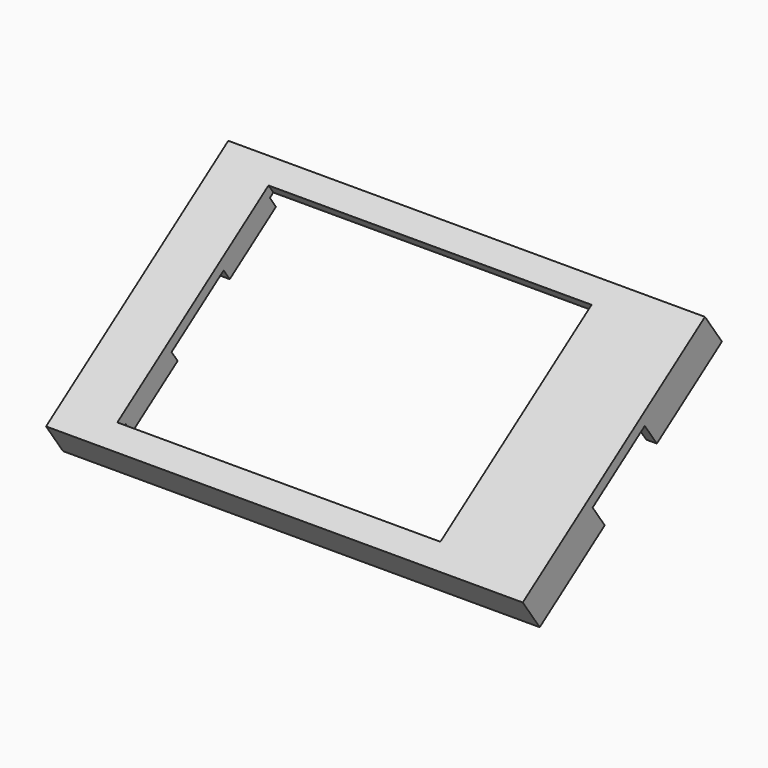
from build123d import *

# Parameters (mm, degrees)
SKETCH019_W             = 90
SKETCH019_H             = 52.43
PAD008_DEPTH            = 7
SKETCH020_W             = 86
SKETCH020_H             = 48.43
POCKET010_DEPTH         = 5
SKETCH030_W             = 67
SKETCH030_H             = 41.5
PAD011_DEPTH            = 2.5
SKETCH021_W             = 61
SKETCH021_H             = 43.5
POCKET011_DEPTH         = 7.001
SKETCH029_W             = 90
SKETCH029_H             = 15
POCKET016_DEPTH         = 5
BODY001_PLACEMENT_ANGLE = 34.9


with BuildPart() as part:
    # Sketch019 → Pad008 (new body)
    with BuildSketch(Plane.XY):
        with Locations((0, 26.215)):
            Rectangle(SKETCH019_W, SKETCH019_H)
    extrude(amount=PAD008_DEPTH)

    # Sketch020 (on Face5 of Pad008) → Pocket010 (cut)
    with BuildSketch(Plane(origin=(0, 0, 0), x_dir=(1, 0, 0), z_dir=(0, 0, -1))):
        with Locations((0, -26.215)):
            Rectangle(SKETCH020_W, SKETCH020_H)
    extrude(amount=-POCKET010_DEPTH, mode=Mode.SUBTRACT)

    # Sketch030 (on Face11 of Pocket010) → Pad011 (join)
    with BuildSketch(Plane(origin=(0, 0, 5), x_dir=(1, 0, 0), z_dir=(0, 0, -1))):
        with Locations((-4, -26.25)):
            Rectangle(SKETCH030_W, SKETCH030_H)
    extrude(amount=PAD011_DEPTH)

    # Sketch021 (on Face5 of Pocket010) → Pocket011 (cut, through all)
    with BuildSketch(Plane.XY.offset(7)):
        with Locations((-4, 26.25)):
            Rectangle(SKETCH021_W, SKETCH021_H)
    extrude(amount=-POCKET011_DEPTH, mode=Mode.SUBTRACT)

    # Sketch029 (on Face4 of Pocket011) → Pocket016 (cut)
    with BuildSketch(Plane(origin=(0, 0, 0), x_dir=(1, 0, 0), z_dir=(0, 0, -1))):
        with Locations((0, -26.21)):
            Rectangle(SKETCH029_W, SKETCH029_H)
    extrude(amount=-POCKET016_DEPTH, mode=Mode.SUBTRACT)


with BuildPart() as part_1:
    # Body001 placement: moved
    add(part.part.moved(Location((0, -107, 0))).rotate(Axis((0, -107, 0), (1, 0, 0)), BODY001_PLACEMENT_ANGLE))


solid = part_1.part
